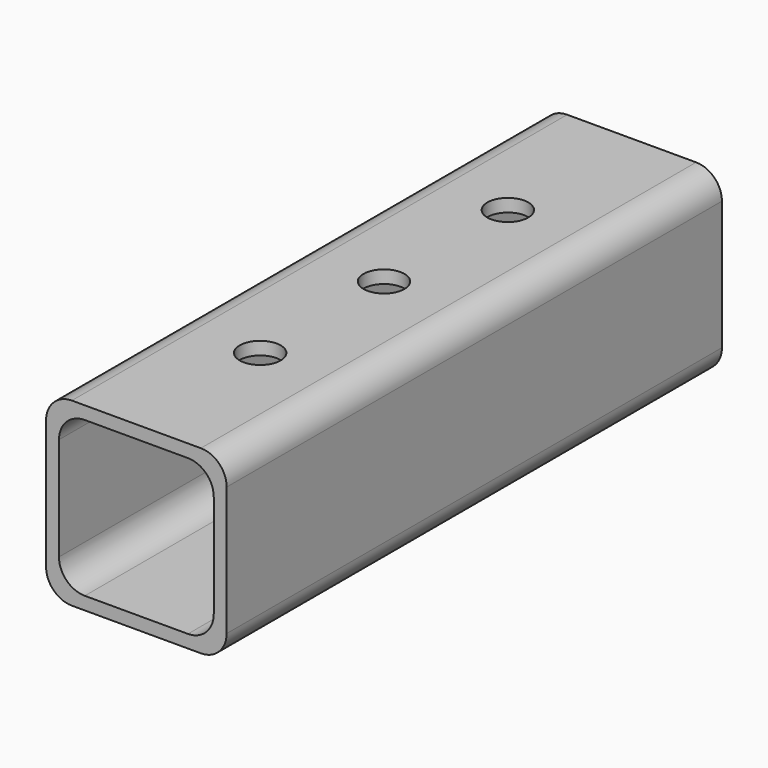
from build123d import *

# Parameters (mm, degrees)
F1_DEPTH = 152.4
F3_D     = 10.0838
F3_DEPTH = 12.7
F3_TIP   = 3.0294791551


with BuildPart() as f1:
    # F0 (on Front) → F1 (new body)
    with BuildSketch(Plane.XZ):
        with BuildLine():
            ThreePointArc((0, 6.35), (1.8598719395, 1.8598719395), (6.35, 0))
            Line((6.35, 0), (38.0999993515, 0))
            ThreePointArc((38.0999993515, 0), (42.5901274121, 1.8598719395), (44.4499993515, 6.35))
            Line((44.4499993515, 6.35), (44.4499993515, 38.1))
            ThreePointArc((44.4499993515, 38.1), (42.5901274121, 42.5901280605), (38.0999993515, 44.45))
            Line((38.0999993515, 44.45), (6.35, 44.45))
            ThreePointArc((6.35, 44.45), (1.8598719395, 42.5901280605), (0, 38.1))
            Line((0, 38.1), (0, 6.35))
        make_face()
        with BuildLine():
            Line((34.9249993515, 3.175), (9.5249993515, 3.175))
            ThreePointArc((9.5249993515, 3.175), (5.034871291, 5.0348719395), (3.1749993515, 9.525))
            Line((3.1749993515, 9.525), (3.1749993515, 34.925))
            ThreePointArc((3.1749993515, 34.925), (5.034871291, 39.4151280605), (9.5249993515, 41.275))
            Line((9.5249993515, 41.275), (34.9249993515, 41.275))
            ThreePointArc((34.9249993515, 41.275), (39.4151274121, 39.4151280605), (41.2749993515, 34.925))
            Line((41.2749993515, 34.925), (41.2749993515, 9.525))
            ThreePointArc((41.2749993515, 9.525), (39.4151274121, 5.0348719395), (34.9249993515, 3.175))
        make_face(mode=Mode.SUBTRACT)
    extrude(amount=F1_DEPTH)

    # F3
    with Locations(Plane.XY.offset(44.45)):
        with Locations((22.2249996758, -114.3), (22.2249996758, -76.2), (22.2249996758, -38.1)):
            Hole(F3_D / 2, depth=F3_DEPTH)
            with Locations((0, 0, -(F3_DEPTH + F3_TIP / 2))):  # 118° drill point
                Cone(0, F3_D / 2, F3_TIP, mode=Mode.SUBTRACT)


solid = f1.part
